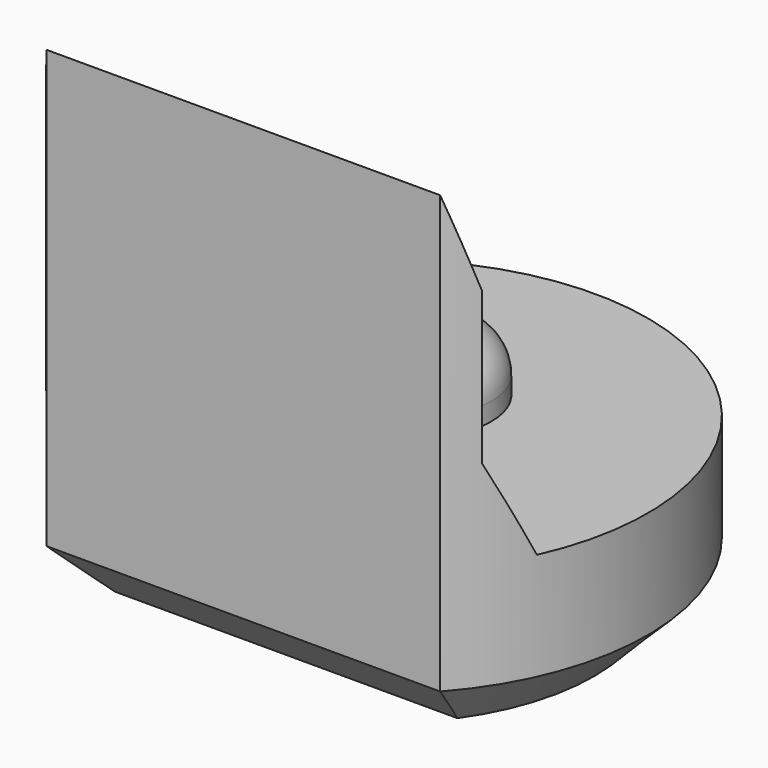
from build123d import *

# Parameters (mm, degrees)
PAD003_DEPTH         = 5.5
POCKET004_DEPTH      = 2.951
POCKET004_DEPTH_BACK = 2.951
SKETCH013_R          = 0.8
PAD006_DEPTH         = 0.7
FILLET_R             = 0.5
CHAMFER004_SIZE      = 0.6


with BuildPart() as part:
    # Sketch004 → Pad003 (new body)
    with BuildSketch(Plane.XY):
        with BuildLine():
            ThreePointArc((2.2, -1.9653244007), (0, 2.95), (-2.2, -1.9653244007))
            Line((-2.2, -1.9653244007), (2.2, -1.9653244007))
        make_face()
    extrude(amount=PAD003_DEPTH)

    # Sketch014 → Pocket004 (cut, two sides)
    with BuildSketch(Plane.YZ) as pocket004_sk:
        Polygon((-1.97, 5.5), (-1.67, 4.5), (-1.67, 2.8), (-1.22, 1.8), (4, 1.8), (4, 5.5), align=None)
    extrude(amount=-POCKET004_DEPTH, mode=Mode.SUBTRACT)
    extrude(pocket004_sk.sketch, amount=POCKET004_DEPTH_BACK, mode=Mode.SUBTRACT)

    # Sketch013 (on Face7 of Pocket004) → Pad006 (join)
    with BuildSketch(Plane.XY.offset(1.8)):
        with Locations((0, 0.5)):
            Circle(SKETCH013_R)
    extrude(amount=PAD006_DEPTH)

    # Fillet
    fillet_edges = [part.edges().sort_by_distance(p)[0] for p in [
        (-0.8, 0.5, 2.5),
    ]]
    fillet(fillet_edges, radius=FILLET_R)

    # Chamfer004
    chamfer004_edges = [part.edges().sort_by_distance(p)[0] for p in [
        (0, 2.95, 0),
        (0, -1.965324, 0),
    ]]
    chamfer(chamfer004_edges, length=CHAMFER004_SIZE)


with BuildPart() as part_1:
    # Body023 placement: moved
    add(part.part.moved(Location((0, 24, 0))))


solid = part_1.part
